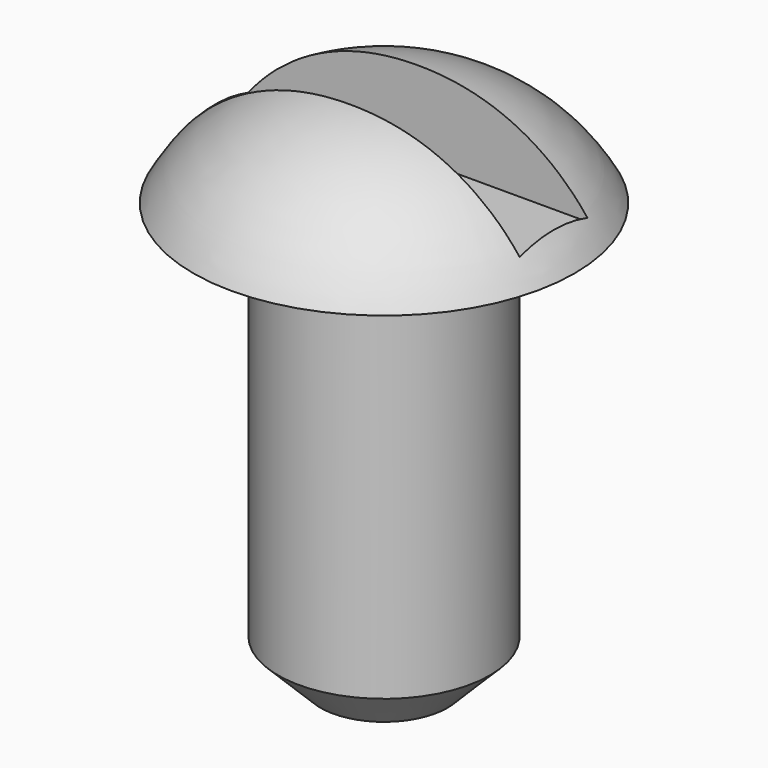
from build123d import *

# Parameters (mm, degrees)
F2_SIZE  = 1.27
F4_W     = 10.16
F4_H     = 2.54
F5_DEPTH = 25.4


with BuildPart() as f1:
    # F0 (on Front) → F1 (revolve)
    with BuildSketch(Plane.XZ):
        with BuildLine():
            ThreePointArc((5.715, 12.7), (3.314377, 15.109878), (0, 15.875))
            Line((0, 15.875), (0, 0))
            Line((0, 0), (3.175, 0))
            Line((3.175, 0), (3.175, 12.7))
            Line((3.175, 12.7), (5.715, 12.7))
        make_face()
    revolve(axis=Axis((0, 0, 7.9375), (0, 0, -1)))

    # F2
    f2_edges = [f1.edges().sort_by_distance(p)[0] for p in [
        (-3.175, 0, 0),
    ]]
    chamfer(f2_edges, length=F2_SIZE)

    # F4 (on offset) → F5 (cut)
    with BuildSketch(Plane(origin=(0, 0, 13.335), x_dir=(1, 0, 0), z_dir=(0, 0, -1))):
        Rectangle(F4_W, F4_H)
    extrude(amount=-F5_DEPTH, mode=Mode.SUBTRACT)


solid = f1.part
